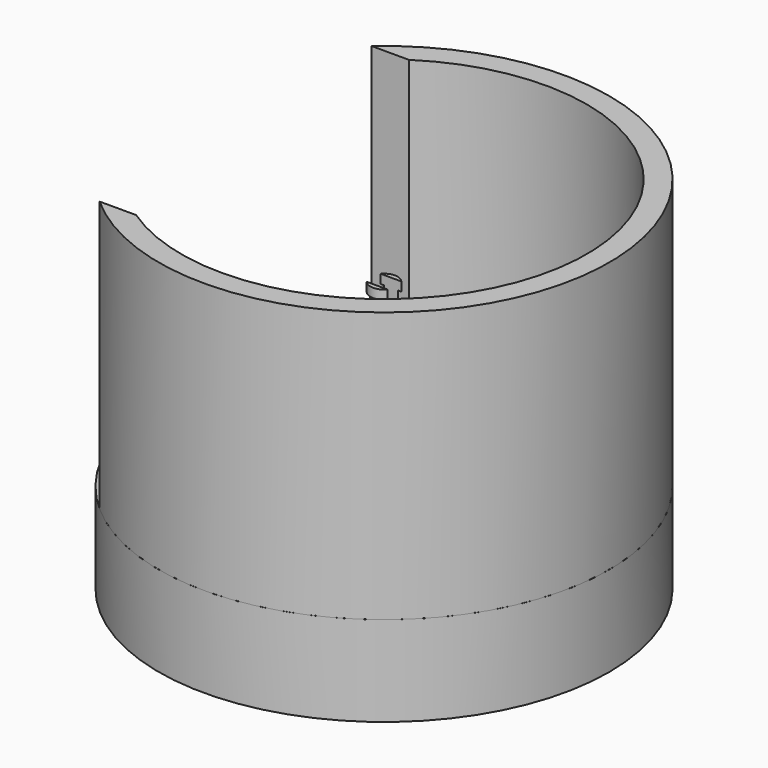
from build123d import *

# Parameters (mm, degrees)
F0_R      = 63.5
F1_DEPTH  = 25.4
F3_R      = 63.5
F4_DEPTH  = 76.2
F7_T      = -6.35
F10_W     = 95.25
F10_H     = 76.2
F11_DEPTH = 88.9
F12_R     = 14.488575167
F13_DEPTH = 38.1
F13_TAPER = 7
F14_T     = -2.54
F15_R     = 3.175
F16_DEPTH = 12.7
F18_DEPTH = 2.54
F19_DEPTH = 10.16
F20_DEPTH = 10.16


with BuildPart() as f1:
    # F0 (on Top) → F1 (new body)
    with BuildSketch(Plane.XY):
        Circle(F0_R)
    extrude(amount=F1_DEPTH)

    # F12 (on offset) → F13 (join)
    with BuildSketch(Plane.XY.offset(25.4)):
        Circle(F12_R)
    extrude(amount=F13_DEPTH, taper=F13_TAPER)

    # F14
    f14_openings = [f1.faces().sort_by_distance(p)[0] for p in [
        (0, 0, 0),
    ]]
    offset(amount=F14_T, openings=f14_openings, kind=Kind.INTERSECTION)

    # F15 (on face) → F16 (join)
    with BuildSketch(Plane.XY.offset(63.5)):
        Circle(F15_R)
    extrude(amount=F16_DEPTH)

    # F17 (on face) → F18 (join)
    with BuildSketch(Plane.XY.offset(76.2)):
        with BuildLine():
            ThreePointArc((2.9187135572, -2.4489204092), (3.5802512938, -1.3030351774), (3.81, 0))
            ThreePointArc((3.81, 0), (3.5802512938, 1.3030351774), (2.9187135572, 2.4489204092))
            Line((2.9187135572, 2.4489204092), (2.9187135572, 1.249694431))
            ThreePointArc((2.9187135572, 1.249694431), (3.1102685209, 0.6378516504), (3.175, 0))
            ThreePointArc((3.175, 0), (3.1102685209, -0.6378516504), (2.9187135572, -1.249694431))
            Line((2.9187135572, -1.249694431), (2.9187135572, -2.4489204092))
        make_face()
        with BuildLine():
            Line((2.0207458596, 2.4489204092), (2.9187135572, 2.4489204092))
            ThreePointArc((2.9187135572, 2.4489204092), (0, 3.81), (-2.9187135572, 2.4489204092))
            Line((-2.9187135572, 2.4489204092), (-2.0207458596, 2.4489204092))
            ThreePointArc((-2.0207458596, 2.4489204092), (0, 3.175), (2.0207458596, 2.4489204092))
        make_face()
        with BuildLine():
            Line((2.9187135572, 1.249694431), (2.9187135572, 2.4489204092))
            Line((2.9187135572, 2.4489204092), (2.0207458596, 2.4489204092))
            ThreePointArc((2.0207458596, 2.4489204092), (2.5414760612, 1.9030303283), (2.9187135572, 1.249694431))
        make_face()
        with BuildLine():
            ThreePointArc((-2.9187135572, -2.4489204092), (0, -3.81), (2.9187135572, -2.4489204092))
            Line((2.9187135572, -2.4489204092), (2.0207458596, -2.4489204092))
            ThreePointArc((2.0207458596, -2.4489204092), (0, -3.175), (-2.0207458596, -2.4489204092))
            Line((-2.0207458596, -2.4489204092), (-2.9187135572, -2.4489204092))
        make_face()
        with BuildLine():
            Line((2.0207458596, -2.4489204092), (2.9187135572, -2.4489204092))
            Line((2.9187135572, -2.4489204092), (2.9187135572, -1.249694431))
            ThreePointArc((2.9187135572, -1.249694431), (2.5414760612, -1.9030303283), (2.0207458596, -2.4489204092))
        make_face()
        with BuildLine():
            Line((-2.9187135572, 1.249694431), (-2.9187135572, 2.4489204092))
            ThreePointArc((-2.9187135572, 2.4489204092), (-3.81, 0), (-2.9187135572, -2.4489204092))
            Line((-2.9187135572, -2.4489204092), (-2.9187135572, -1.249694431))
            ThreePointArc((-2.9187135572, -1.249694431), (-3.175, 0), (-2.9187135572, 1.249694431))
        make_face()
        with BuildLine():
            Line((-2.0207458596, 2.4489204092), (-2.9187135572, 2.4489204092))
            Line((-2.9187135572, 2.4489204092), (-2.9187135572, 1.249694431))
            ThreePointArc((-2.9187135572, 1.249694431), (-2.5414760612, 1.9030303283), (-2.0207458596, 2.4489204092))
        make_face()
        with BuildLine():
            Line((-2.9187135572, -1.249694431), (-2.9187135572, -2.4489204092))
            Line((-2.9187135572, -2.4489204092), (-2.0207458596, -2.4489204092))
            ThreePointArc((-2.0207458596, -2.4489204092), (-2.5414760612, -1.9030303283), (-2.9187135572, -1.249694431))
        make_face()
    extrude(amount=-F18_DEPTH)

    # F17 (on face) → F19 (cut)
    with BuildSketch(Plane.XY.offset(76.2)):
        with BuildLine():
            ThreePointArc((2.9187135572, 1.249694431), (2.5414760612, 1.9030303283), (2.0207458596, 2.4489204092))
            Line((2.0207458596, 2.4489204092), (-2.0207458596, 2.4489204092))
            ThreePointArc((-2.0207458596, 2.4489204092), (-2.5414760612, 1.9030303283), (-2.9187135572, 1.249694431))
            Line((-2.9187135572, 1.249694431), (-2.9187135572, -1.249694431))
            ThreePointArc((-2.9187135572, -1.249694431), (-2.5414760612, -1.9030303283), (-2.0207458596, -2.4489204092))
            Line((-2.0207458596, -2.4489204092), (2.0207458596, -2.4489204092))
            ThreePointArc((2.0207458596, -2.4489204092), (2.5414760612, -1.9030303283), (2.9187135572, -1.249694431))
            Line((2.9187135572, -1.249694431), (2.9187135572, 1.249694431))
        make_face()
        with BuildLine():
            ThreePointArc((3.175, 0), (3.1102685209, 0.6378516504), (2.9187135572, 1.249694431))
            Line((2.9187135572, 1.249694431), (2.9187135572, -1.249694431))
            ThreePointArc((2.9187135572, -1.249694431), (3.1102685209, -0.6378516504), (3.175, 0))
        make_face()
        with BuildLine():
            Line((-2.9187135572, -1.249694431), (-2.9187135572, 1.249694431))
            ThreePointArc((-2.9187135572, 1.249694431), (-3.175, 0), (-2.9187135572, -1.249694431))
        make_face()
    extrude(amount=-F19_DEPTH, mode=Mode.SUBTRACT)

    # F17 (on face) → F20 (cut)
    with BuildSketch(Plane.XY.offset(76.2)):
        with BuildLine():
            Line((-2.9187135572, -1.249694431), (-2.9187135572, -2.4489204092))
            Line((-2.9187135572, -2.4489204092), (-2.0207458596, -2.4489204092))
            ThreePointArc((-2.0207458596, -2.4489204092), (-2.5414760612, -1.9030303283), (-2.9187135572, -1.249694431))
        make_face()
        with BuildLine():
            Line((-2.0207458596, 2.4489204092), (-2.9187135572, 2.4489204092))
            Line((-2.9187135572, 2.4489204092), (-2.9187135572, 1.249694431))
            ThreePointArc((-2.9187135572, 1.249694431), (-2.5414760612, 1.9030303283), (-2.0207458596, 2.4489204092))
        make_face()
        with BuildLine():
            Line((2.0207458596, -2.4489204092), (2.9187135572, -2.4489204092))
            Line((2.9187135572, -2.4489204092), (2.9187135572, -1.249694431))
            ThreePointArc((2.9187135572, -1.249694431), (2.5414760612, -1.9030303283), (2.0207458596, -2.4489204092))
        make_face()
        with BuildLine():
            Line((2.9187135572, 1.249694431), (2.9187135572, 2.4489204092))
            Line((2.9187135572, 2.4489204092), (2.0207458596, 2.4489204092))
            ThreePointArc((2.0207458596, 2.4489204092), (2.5414760612, 1.9030303283), (2.9187135572, 1.249694431))
        make_face()
        with BuildLine():
            Line((-2.9187135572, 1.249694431), (-2.9187135572, 2.4489204092))
            ThreePointArc((-2.9187135572, 2.4489204092), (-3.81, 0), (-2.9187135572, -2.4489204092))
            Line((-2.9187135572, -2.4489204092), (-2.9187135572, -1.249694431))
            ThreePointArc((-2.9187135572, -1.249694431), (-3.175, 0), (-2.9187135572, 1.249694431))
        make_face()
        with BuildLine():
            ThreePointArc((2.9187135572, -2.4489204092), (3.5802512938, -1.3030351774), (3.81, 0))
            ThreePointArc((3.81, 0), (3.5802512938, 1.3030351774), (2.9187135572, 2.4489204092))
            Line((2.9187135572, 2.4489204092), (2.9187135572, 1.249694431))
            ThreePointArc((2.9187135572, 1.249694431), (3.1102685209, 0.6378516504), (3.175, 0))
            ThreePointArc((3.175, 0), (3.1102685209, -0.6378516504), (2.9187135572, -1.249694431))
            Line((2.9187135572, -1.249694431), (2.9187135572, -2.4489204092))
        make_face()
    extrude(amount=-F20_DEPTH, mode=Mode.SUBTRACT)


with BuildPart() as f4:
    # F3 (on offset) → F4 (new body)
    with BuildSketch(Plane.XY.offset(25.4)):
        Circle(F3_R)
    extrude(amount=F4_DEPTH)

    # F7
    f7_openings = [f4.faces().sort_by_distance(p)[0] for p in [
        (0, 0, 101.6),
    ]]
    offset(amount=F7_T, openings=f7_openings)

    # F10 (on offset) → F11 (cut)
    with BuildSketch(Plane.YZ.offset(-63.5)):
        with Locations((0.2231750339, 63.5)):
            Rectangle(F10_W, F10_H)
    extrude(amount=F11_DEPTH, mode=Mode.SUBTRACT)


solid = Compound([f1.part, f4.part])
